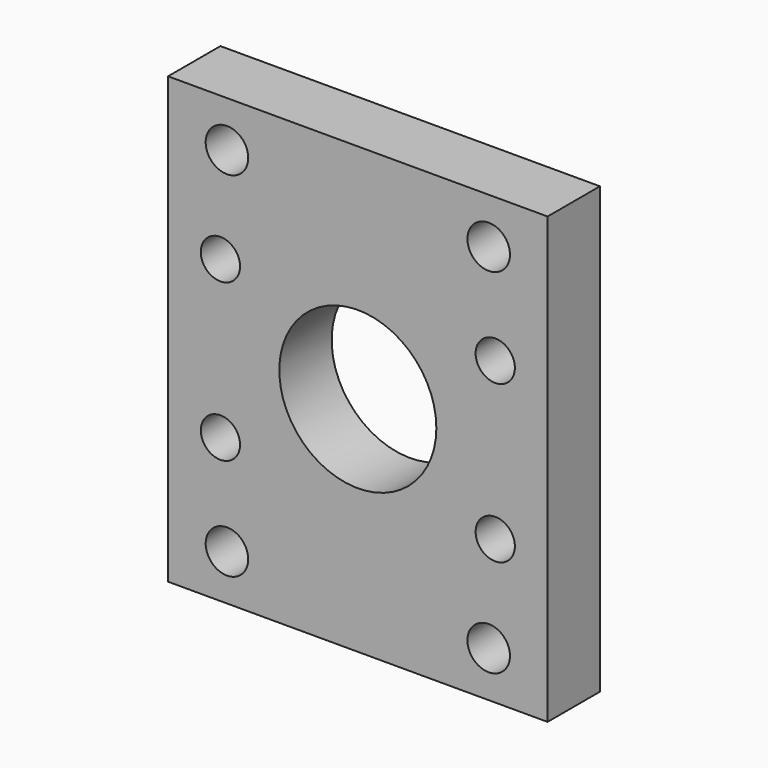
from build123d import *

# Parameters (mm, degrees)
F0_W     = 58
F0_H     = 68
F0_R     = 3.25
F0_R_2   = 3
F0_R_3   = 12
F1_DEPTH = 10


with BuildPart() as f1:
    # F0 (on Front) → F1 (new body)
    with BuildSketch(Plane.XZ):
        Rectangle(F0_W, F0_H)
        with Locations((-20, -27)):
            Circle(F0_R, mode=Mode.SUBTRACT)
        with Locations((-21, -12)):
            Circle(F0_R_2, mode=Mode.SUBTRACT)
        with Locations((20, -27)):
            Circle(F0_R, mode=Mode.SUBTRACT)
        with Locations((21, -12)):
            Circle(F0_R_2, mode=Mode.SUBTRACT)
        with Locations((-21, 12)):
            Circle(F0_R_2, mode=Mode.SUBTRACT)
        with Locations((-20, 27)):
            Circle(F0_R, mode=Mode.SUBTRACT)
        Circle(F0_R_3, mode=Mode.SUBTRACT)
        with Locations((21, 12)):
            Circle(F0_R_2, mode=Mode.SUBTRACT)
        with Locations((20, 27)):
            Circle(F0_R, mode=Mode.SUBTRACT)
    extrude(amount=F1_DEPTH)


solid = f1.part
